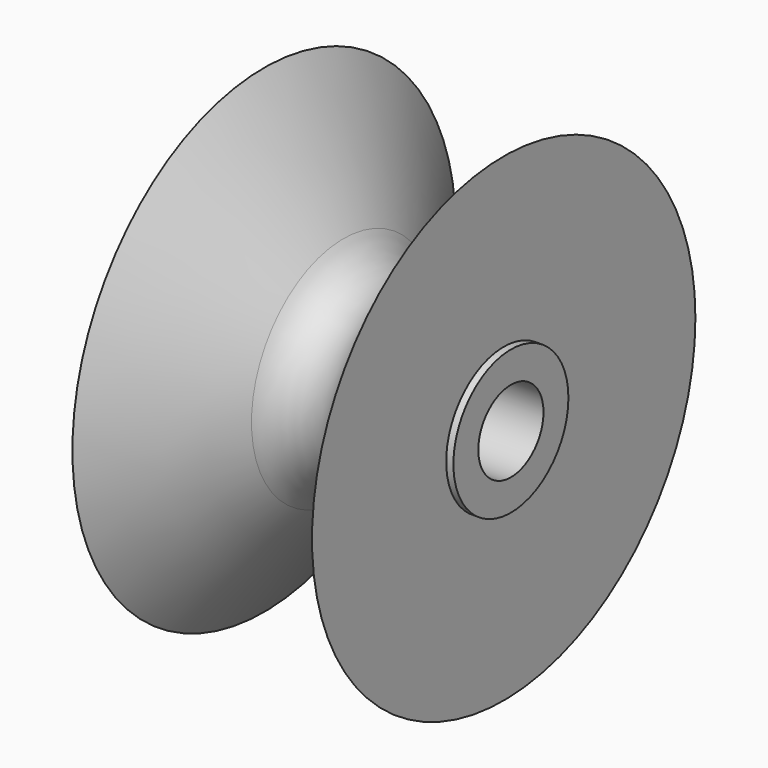
from build123d import *

# Parameters (mm, degrees)
F3_ANGLE = 90
F4_R     = 3
F4_R_2   = 1.7
F5_DEPTH = 0.3
F6_R     = 3
F6_R_2   = 1.7
F7_DEPTH = 0.3


with BuildPart() as f2:
    # F0 (on Front) → F2 (revolve)
    with BuildSketch(Plane.XZ):
        with BuildLine():
            Line((-5, 10), (-5, 1.7))
            Line((-5, 1.7), (5, 1.7))
            Line((5, 1.7), (5, 10))
            Line((5, 10), (1.6867828916, 4.7992908911))
            ThreePointArc((1.6867828916, 4.7992908911), (0, 3.8738901078), (-1.6867828916, 4.7992908911))
            Line((-1.6867828916, 4.7992908911), (-5, 10))
        make_face()
    revolve(axis=Axis((0, 0, 0), (1, 0, 0)))


with BuildPart() as f2_1:
    # F3: moved
    add(f2.part.rotate(Axis((-13.5274957865, 0, 0), (-1, 0, 0)), F3_ANGLE))

    # F4 (on face) → F5 (join)
    with BuildSketch(Plane.YZ.offset(5)):
        Circle(F4_R)
        Circle(F4_R_2, mode=Mode.SUBTRACT)
    extrude(amount=F5_DEPTH)

    # F6 (on face) → F7 (join)
    with BuildSketch(Plane(origin=(-5, 0, 0), x_dir=(0, -1, 0), z_dir=(-1, 0, 0))):
        Circle(F6_R)
        Circle(F6_R_2, mode=Mode.SUBTRACT)
    extrude(amount=F7_DEPTH)


solid = f2_1.part
